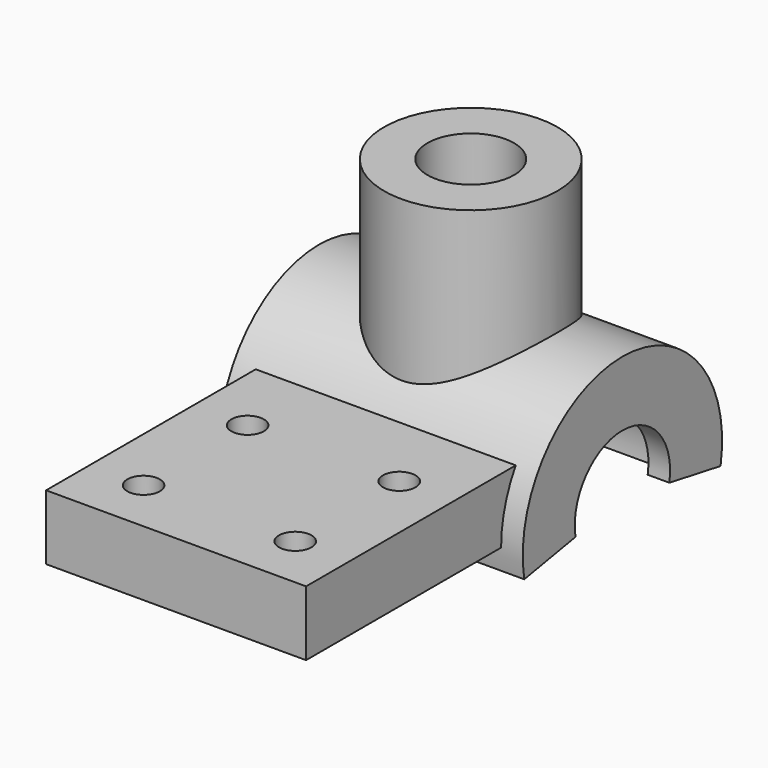
from build123d import *

# Parameters (mm, degrees)
F1_ANGLE = 200
F3_R     = 4
F3_R_2   = 8
F4_DEPTH = 15
F6_W     = 24
F6_H     = 6
F7_DEPTH = 25
F9_D     = 3
F9_DEPTH = 10


with BuildPart() as f1:
    # F0 (on Front) → F1 (revolve, symmetric)
    with BuildSketch(Plane.XZ) as f1_sk:
        Polygon((0, 7.5), (0, 5.5), (2, 5.5), (2, 11.5), (-26, 11.5), (-26, 5.5), (-24, 5.5), (-24, 7.5), align=None)
    revolve(axis=Axis((-13.749522, 0, 0), (1, 0, 0)), revolution_arc=F1_ANGLE / 2)
    revolve(f1_sk.sketch, axis=Axis((-13.749522, 0, 0), (-1, 0, 0)), revolution_arc=F1_ANGLE / 2)

    # F3 (on offset) → F4 (join)
    with BuildSketch(Plane.XY.offset(8)):
        with Locations((-12, 0)):
            Circle(F3_R)
        with Locations((-12, 0)):
            Circle(F3_R_2)
        with Locations((-12, 0)):
            Circle(F3_R, mode=Mode.SUBTRACT)
    extrude(amount=F4_DEPTH)

    # F6 (on offset) → F7 (join)
    with BuildSketch(Plane.XZ.offset(9)):
        with Locations((-12, 3)):
            Rectangle(F6_W, F6_H)
    extrude(amount=F7_DEPTH)

    # F9
    with Locations(Plane.XY.offset(6)):
        with Locations((-19, -29), (-5, -29), (-5, -17.000001), (-19, -17.000001)):
            Hole(F9_D / 2, depth=F9_DEPTH)


solid = f1.part
